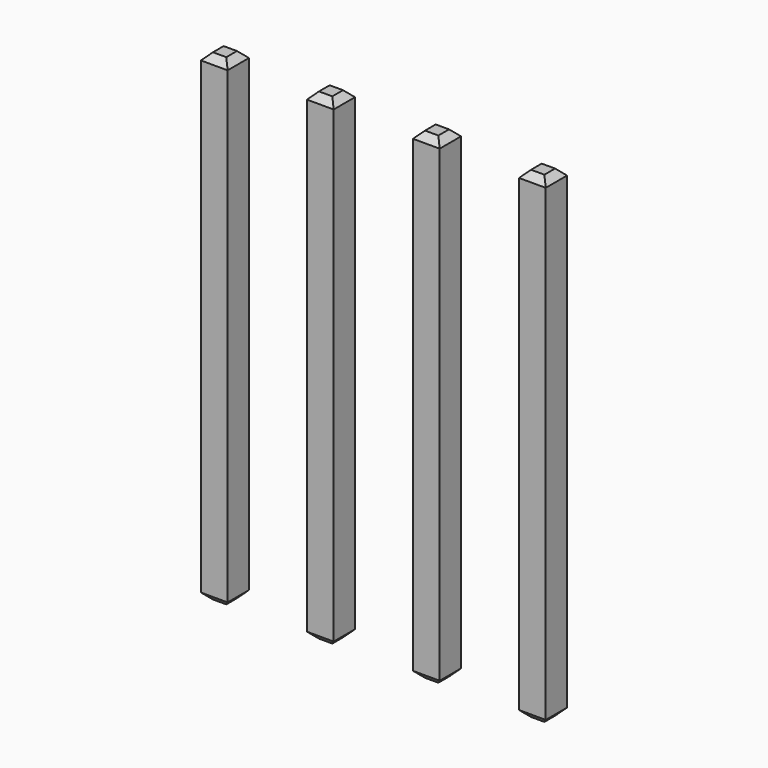
from build123d import *

# Parameters (mm, degrees)
SKETCH224_W       = 0.64
SKETCH224_H       = 11.54
PAD080_DEPTH      = 0.32
PAD080_DEPTH_BACK = 0.32
CHAMFER038_SIZE   = 0.16
ARRAY016_X_COUNT  = 4
ARRAY016_X_PITCH  = 2.54


with BuildPart() as part:
    # Sketch224 → Pad080 (new body, two sides)
    with BuildSketch(Plane.XZ) as pad080_sk:
        with Locations((0, 2.77)):
            Rectangle(SKETCH224_W, SKETCH224_H)
    extrude(amount=PAD080_DEPTH)
    extrude(pad080_sk.sketch, amount=-PAD080_DEPTH_BACK)

    # Chamfer038
    chamfer038_edges = [part.edges().sort_by_distance(p)[0] for p in [
        (0.32, 0, 8.54),
        (-0.32, 0, 8.54),
        (0, 0.32, 8.54),
        (0, -0.32, 8.54),
        (-0.32, 0, -3),
        (0.32, 0, -3),
        (0, 0.32, -3),
        (0, -0.32, -3),
    ]]
    chamfer(chamfer038_edges, length=CHAMFER038_SIZE)

    # Array016 X: part ×4


with BuildPart() as part_1:
    add(part.part)
    with Locations(*[(i * ARRAY016_X_PITCH, 0, 0) for i in range(1, ARRAY016_X_COUNT)]):
        add(part.part)


solid = part_1.part
